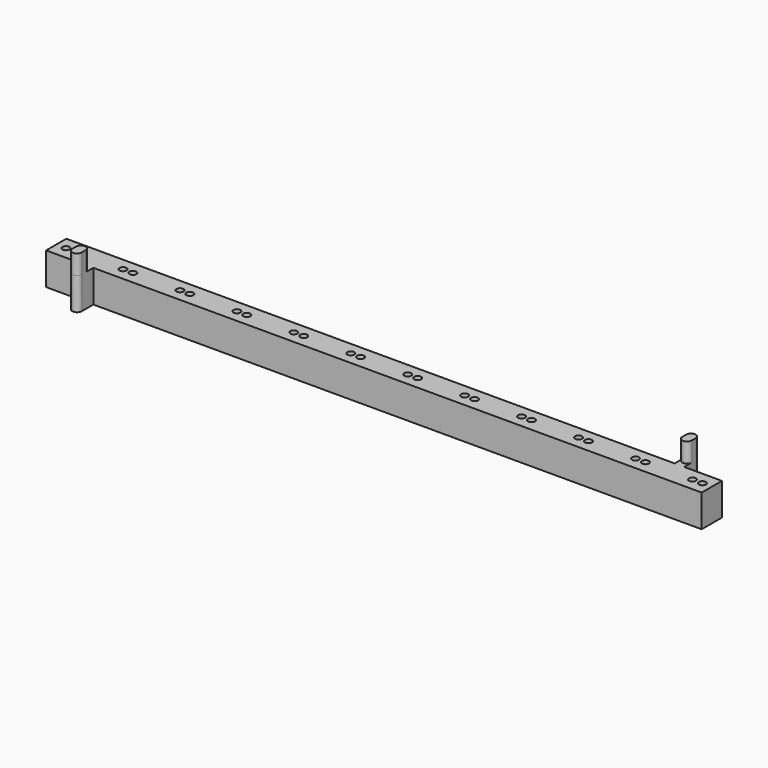
from build123d import *

# Parameters (mm, degrees)
PAD_DEPTH       = 8.3
SKETCH001_R     = 0.9
POCKET_DEPTH    = 10
PAD001_DEPTH    = 5
SKETCH003_W     = 8.001678
SKETCH003_H     = 6.862923
POCKET001_DEPTH = 5


with BuildPart() as part:
    # Sketch → Pad (new body)
    with BuildSketch(Plane.XY):
        with BuildLine():
            Line((-84.1375, 3.25), (72, 3.25))
            Line((72, 3.25), (72, 6.94))
            ThreePointArc((74.47, 6.940013), (73.234993, 8.174999), (72, 6.94))
            Line((74.47, 6.940013), (74.47, 3.250013))
            Line((74.47, 3.250013), (84.1375, 3.25))
            Line((84.1375, 3.25), (84.1375, -3.25))
            Line((84.1375, -3.25), (-72, -3.25))
            Line((-72, -3.25), (-72, -6.94))
            ThreePointArc((-74.47, -6.94), (-73.235, -8.175005), (-72, -6.94))
            Line((-74.47, -6.94), (-74.47, -3.25))
            Line((-74.47, -3.25), (-84.1375, -3.25))
            Line((-84.1375, -3.25), (-84.1375, 3.25))
        make_face()
    extrude(amount=PAD_DEPTH)

    # Sketch001 (on Face14 of Pad) → Pocket (cut)
    with BuildSketch(Plane.XY.offset(8.3)):
        with Locations((-81.61, 0)):
            Circle(SKETCH001_R)
        with Locations((-79.07, 0)):
            Circle(SKETCH001_R)
        with Locations((-66.993, 0)):
            Circle(SKETCH001_R)
        with Locations((-64.453, 0)):
            Circle(SKETCH001_R)
        with Locations((-52.376, 0)):
            Circle(SKETCH001_R)
        with Locations((-49.836, 0)):
            Circle(SKETCH001_R)
        with Locations((-37.759, 0)):
            Circle(SKETCH001_R)
        with Locations((-35.219, 0)):
            Circle(SKETCH001_R)
        with Locations((-23.142, 0)):
            Circle(SKETCH001_R)
        with Locations((-20.602, 0)):
            Circle(SKETCH001_R)
        with Locations((-8.525, 0)):
            Circle(SKETCH001_R)
        with Locations((-5.985, 0)):
            Circle(SKETCH001_R)
        with Locations((6.092, 0)):
            Circle(SKETCH001_R)
        with Locations((8.632, 0)):
            Circle(SKETCH001_R)
        with Locations((20.709, 0)):
            Circle(SKETCH001_R)
        with Locations((23.249, 0)):
            Circle(SKETCH001_R)
        with Locations((35.326, 0)):
            Circle(SKETCH001_R)
        with Locations((37.866, 0)):
            Circle(SKETCH001_R)
        with Locations((49.943, 0)):
            Circle(SKETCH001_R)
        with Locations((52.483, 0)):
            Circle(SKETCH001_R)
        with Locations((64.56, 0)):
            Circle(SKETCH001_R)
        with Locations((67.1, 0)):
            Circle(SKETCH001_R)
        with Locations((79.177, 0)):
            Circle(SKETCH001_R)
        with Locations((81.717, 0)):
            Circle(SKETCH001_R)
    extrude(amount=-POCKET_DEPTH, mode=Mode.SUBTRACT)

    # Sketch002 (on Face5 of Pocket) → Pad001 (join)
    with BuildSketch(Plane.XY.offset(8.3)):
        with BuildLine():
            Line((74.47, 6.97), (74.47, 5.7))
            ThreePointArc((72, 5.7), (73.235, 4.465), (74.47, 5.7))
            Line((72, 5.7), (72, 6.97))
            ThreePointArc((74.47, 6.97), (73.235, 8.204992), (72, 6.97))
        make_face()
        with BuildLine():
            Line((-72, -5.7), (-72, -6.97))
            ThreePointArc((-74.47, -6.97), (-73.235, -8.205), (-72, -6.97))
            Line((-74.47, -6.97), (-74.47, -5.7))
            ThreePointArc((-72, -5.7), (-73.235, -4.465), (-74.47, -5.7))
        make_face()
    extrude(amount=PAD001_DEPTH)

    # Sketch003 (on Face4 of Pad001) → Pocket001 (cut)
    with BuildSketch(Plane(origin=(0, 0, 0), x_dir=(1, 0, 0), z_dir=(0, 0, -1))):
        with Locations((73.336792, -6.681462)):
            Rectangle(SKETCH003_W, SKETCH003_H)
    extrude(amount=-POCKET001_DEPTH, mode=Mode.SUBTRACT)


solid = part.part
